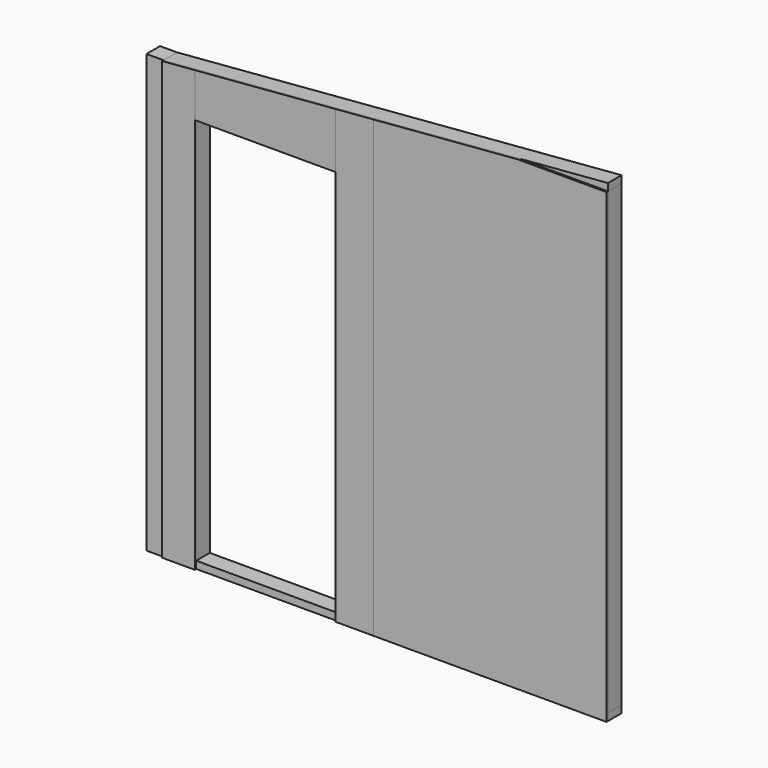
from build123d import *

# Parameters (mm, degrees)
F1_DEPTH = 44.45
F0_W     = 736.6
F0_H     = 38.1
F2_DEPTH = 44.45
F3_DEPTH = 44.45
F4_W     = 171.45
F4_H     = 38.1
F4_W_2   = 196.85
F5_DEPTH = 9.525
F4_W_3   = 1219.2
F6_DEPTH = 9.525


with BuildPart() as f1:
    # F0 (on Front) → F1 (new body, symmetric)
    with BuildSketch(Plane.XZ):
        Polygon((-1250.95, -1238.25), (-1162.05, -1238.25), (-1162.05, -1200.15), (-1162.05, 1009.522224), (-1162.05, 1013.384365), (-1162.05, 1047.75), (-1250.95, 1047.75), align=None)
        Polygon((-1028.7, 1020.452552), (-1028.7, -1200.15), (-990.6, -1200.15), (-990.6, 831.85), (-990.6, 869.95), (-990.6, 1023.575503), align=None)
        Polygon((-254, 831.85), (-254, -1200.15), (-215.9, -1200.15), (-215.9, 1087.075503), (-254, 1083.952552), (-254, 869.95), align=None)
        Polygon((-76.2, -1200.15), (-38.1, -1200.15), (-38.1, 1101.649274), (-76.2, 1098.526323), align=None)
        Polygon((330.2, 1131.837798), (330.2, -1200.15), (368.3, -1197.027049), (368.3, 1134.960749), align=None)
        Polygon((736.6, 1165.149274), (736.6, -1200.15), (774.7, -1197.027049), (774.7, 1168.272224), align=None)
        Polygon((1123.95, -1200.15), (1162.05, -1200.15), (1162.05, 1200.022224), (1123.95, 1196.899274), align=None)
    extrude(amount=F1_DEPTH, both=True)


with BuildPart() as f2:
    # F0 (on Front) → F2 (new body, symmetric)
    with BuildSketch(Plane.XZ):
        Polygon((-1162.05, 1013.384365), (-1162.05, 1009.522224), (-1123.95, 1012.645175), (-1028.7, 1020.452552), (-990.6, 1023.575503), (-254, 1083.952552), (-215.9, 1087.075503), (-76.2, 1098.526323), (-38.1, 1101.649274), (330.2, 1131.837798), (368.3, 1134.960749), (736.6, 1165.149274), (774.7, 1168.272224), (1123.95, 1196.899274), (1123.95, 1200.022224), (1162.05, 1200.022224), (1162.05, 1238.25), (-1162.05, 1047.75), align=None)
        with Locations((-622.3, 850.9)):
            Rectangle(F0_W, F0_H)
        Polygon((-1162.05, -1200.15), (-1162.05, -1238.25), (1162.05, -1238.25), (1162.05, -1200.15), (1123.95, -1200.15), (736.6, -1200.15), (330.2, -1200.15), (-38.1, -1200.15), (-76.2, -1200.15), (-215.9, -1200.15), (-254, -1200.15), (-990.6, -1200.15), (-1028.7, -1200.15), (-1114.931886, -1200.15), (-1123.95, -1200.15), align=None)
    extrude(amount=F2_DEPTH, both=True)


with BuildPart() as f3:
    # F0 (on Front) → F3 (new body, symmetric)
    with BuildSketch(Plane.XZ):
        Polygon((-1162.05, 1009.522224), (-1162.05, -1200.15), (-1123.95, -1200.15), (-1123.95, 1012.645175), align=None)
    extrude(amount=F3_DEPTH, both=True)


with BuildPart() as f5:
    # F4 (on face) → F5 (new body)
    with BuildSketch(Plane.XZ.offset(44.45)):
        Polygon((-1162.05, -1200.15), (-990.6, -1200.15), (-990.6, 831.85), (-990.6, 1023.575503), (-990.6, 1061.803279), (-1162.05, 1047.75), align=None)
        Polygon((-254, -1200.15), (-57.15, -1200.15), (-57.15, 1138.315574), (-254, 1122.180328), (-254, 1083.952552), (-254, 831.85), align=None)
        with Locations((-1076.325, -1219.2)):
            Rectangle(F4_W, F4_H)
        with Locations((-155.575, -1219.2)):
            Rectangle(F4_W_2, F4_H)
    extrude(amount=F5_DEPTH)


with BuildPart() as f6:
    # F4 (on face) → F6 (new body)
    with BuildSketch(Plane.XZ.offset(44.45)):
        Polygon((-254, 1083.952552), (-254, 1122.180328), (-990.6, 1061.803279), (-990.6, 1023.575503), (-990.6, 831.85), (-254, 831.85), align=None)
        Polygon((-57.15, -1200.15), (1162.05, -1200.15), (1162.05, 1200.15), (697.23, 1200.15), (-57.15, 1138.315574), align=None)
        with Locations((552.45, -1219.2)):
            Rectangle(F4_W_3, F4_H)
    extrude(amount=F6_DEPTH)


solid = Compound([f1.part, f2.part, f3.part, f5.part, f6.part])
